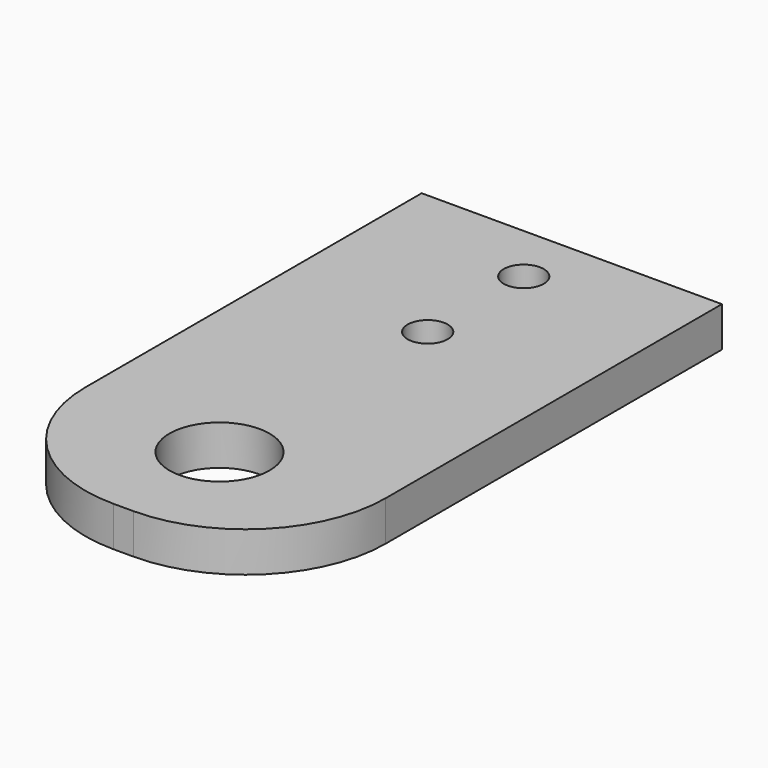
from build123d import *

# Parameters (mm, degrees)
F0_W     = 15
F0_H     = 28
F1_DEPTH = 2
F2_R     = 7
F3_R     = 1
F4_DEPTH = 2


with BuildPart() as f1:
    # F0 (on Top) → F1 (new body)
    with BuildSketch(Plane.XY):
        Rectangle(F0_W, F0_H)
    extrude(amount=F1_DEPTH)

    # F2
    f2_edges = [f1.edges().sort_by_distance(p)[0] for p in [
        (-7.5, -14, 1),
        (7.5, -14, 1),
    ]]
    fillet(f2_edges, radius=F2_R)

    # F3 (on face) → F4 (cut, through all)
    with BuildSketch(Plane.XY.offset(2)):
        with BuildLine():
            ThreePointArc((0, -10.5), (1.767767, -9.767767), (2.5, -8))
            ThreePointArc((2.5, -8), (-1.767767, -6.232233), (0, -10.5))
        make_face()
        with Locations((0, 5)):
            Circle(F3_R)
        with Locations((0, 11)):
            Circle(F3_R)
    extrude(amount=-F4_DEPTH, mode=Mode.SUBTRACT)


solid = f1.part
